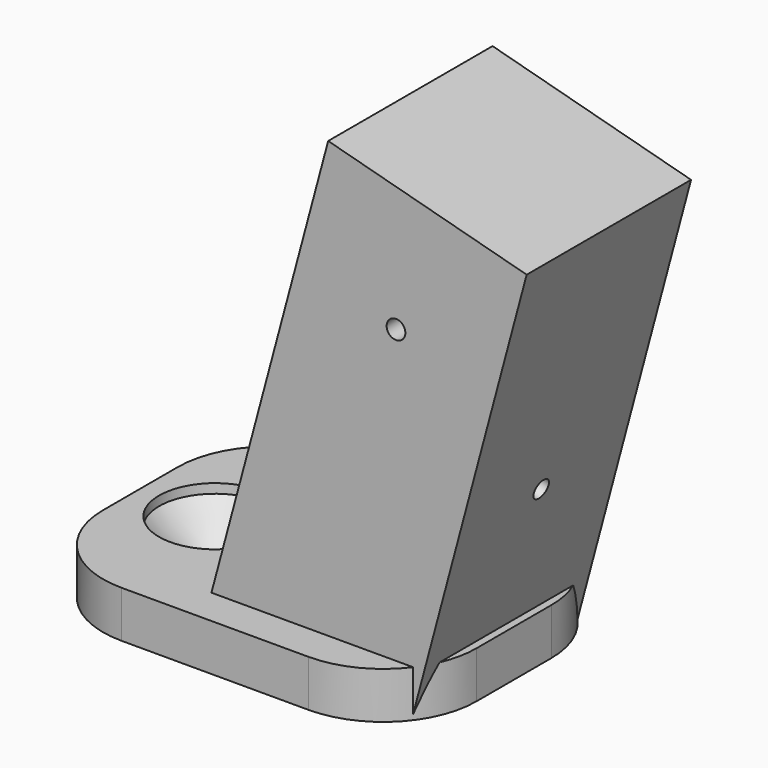
from build123d import *

# Parameters (mm, degrees)
BOX010_W                = 100
BOX010_H                = 100
BOX010_DEPTH            = 20
CYLINDER010_R           = 6
CYLINDER010_DEPTH       = 60
CYLINDER011_R           = 2.1
CYLINDER011_DEPTH       = 40
BOX009_W                = 40
BOX009_H                = 30
BOX009_DEPTH            = 5
FILLET002_R             = 10
CYLINDER013_R           = 1
CYLINDER013_DEPTH       = 60
CYLINDER014_R           = 1
CYLINDER014_DEPTH       = 40
BODY005_PLACEMENT_ANGLE = 90
CYLINDER015_R           = 1
CYLINDER015_DEPTH       = 60
CYLINDER016_R           = 1
CYLINDER016_DEPTH       = 40
BODY006_PLACEMENT_ANGLE = 90
BOX008_W                = 22
BOX008_H                = 22
BOX008_DEPTH            = 50
CUT003_PLACEMENT_ANGLE  = 15


with BuildPart() as base_cube002:
    # Box010 → Box010 (new body)
    with BuildSketch(Plane(origin=(-8, -50, -20), x_dir=(1, 0, 0), z_dir=(0, 0, 1))):
        with Locations((50, 50)):
            Rectangle(BOX010_W, BOX010_H)
    extrude(amount=BOX010_DEPTH)


with BuildPart() as cone005:
    # Cone005 → Cone005 (revolve)
    with BuildSketch(Plane.XZ):
        Polygon((0, 0), (2.1, 0), (6, 4), (0, 4), align=None)
    revolve(axis=Axis((0, 0, 0), (0, 0, 1)))


with BuildPart() as cylinder010:
    # Cylinder010 → Cylinder010 (new body)
    with BuildSketch(Plane.XY.offset(4)):
        Circle(CYLINDER010_R)
    extrude(amount=CYLINDER010_DEPTH)


with BuildPart() as extraction_fusion001:
    # Cylinder011 → Cylinder011 (new body)
    with BuildSketch(Plane.XY.offset(-40)):
        Circle(CYLINDER011_R)
    extrude(amount=CYLINDER011_DEPTH)

    # Fusion012: union Cone005, Cylinder010
    add(cone005.part)
    add(cylinder010.part)


with BuildPart() as extraction_fusion001_1:
    # Fusion012 placement: moved
    add(extraction_fusion001.part.moved(Location((0, 0, 5))))


with BuildPart() as extraction_fusion001_2:
    # Body008 placement: moved
    add(extraction_fusion001_1.part.moved(Location((-17, 0, -5))))

    # Fusion014: union base cube002
    add(base_cube002.part)


with BuildPart() as base_cube_fillet001:
    # Box009 → Box009 (new body)
    with BuildSketch(Plane(origin=(-25, -15, 0), x_dir=(1, 0, 0), z_dir=(0, 0, 1))):
        with Locations((20, 15)):
            Rectangle(BOX009_W, BOX009_H)
    extrude(amount=BOX009_DEPTH)

    # Fillet002
    fillet002_edges = [base_cube_fillet001.edges().sort_by_distance(p)[0] for p in [
        (-25, -15, 2.5),
        (-25, 15, 2.5),
        (15, -15, 2.5),
        (15, 15, 2.5),
    ]]
    fillet(fillet002_edges, radius=FILLET002_R)


with BuildPart() as screw_hole_cylinder001:
    # Cylinder013 → Cylinder013 (new body)
    with BuildSketch(Plane.XY):
        Circle(CYLINDER013_R)
    extrude(amount=CYLINDER013_DEPTH)


with BuildPart() as m3_screw_hole_fusion_clone002:
    # Cylinder014 → Cylinder014 (new body)
    with BuildSketch(Plane.XY.offset(-40)):
        Circle(CYLINDER014_R)
    extrude(amount=CYLINDER014_DEPTH)

    # Fusion011: union screw hole cylinder001
    add(screw_hole_cylinder001.part)


with BuildPart() as m3_screw_hole_fusion_clone002_1:
    # Fusion011 placement: moved
    add(m3_screw_hole_fusion_clone002.part.moved(Location((0, 0, 5))))


with BuildPart() as m3_screw_hole_fusion_clone002_2:
    # Body005 placement: moved
    add(m3_screw_hole_fusion_clone002_1.part.moved(Location((11, 26, 37))).rotate(Axis((11, 26, 37), (1, 0, 0)), BODY005_PLACEMENT_ANGLE))


with BuildPart() as cylinder015:
    # Cylinder015 → Cylinder015 (new body)
    with BuildSketch(Plane.XY):
        Circle(CYLINDER015_R)
    extrude(amount=CYLINDER015_DEPTH)


with BuildPart() as m3_hole_fusion001:
    # Cylinder016 → Cylinder016 (new body)
    with BuildSketch(Plane.XY.offset(-40)):
        Circle(CYLINDER016_R)
    extrude(amount=CYLINDER016_DEPTH)

    # Fusion016: union Cylinder015
    add(cylinder015.part)


with BuildPart() as m3_hole_fusion001_1:
    # Fusion016 placement: moved
    add(m3_hole_fusion001.part.moved(Location((0, 0, 5))))


with BuildPart() as m3_hole_fusion001_2:
    # Body009 placement: moved
    add(m3_hole_fusion001_1.part.moved(Location((0, 0, -5))))


with BuildPart() as m3_hole_fusion001_3:
    # Clone006 placement: moved
    add(m3_hole_fusion001_2.part.moved(Location((0, 0, 10))))


with BuildPart() as m3_hole_fusion001_4:
    # Body006 placement: moved
    add(m3_hole_fusion001_3.part.moved(Location((-2, 11, 22))).rotate(Axis((-2, 11, 22), (0, 1, 0)), BODY006_PLACEMENT_ANGLE))

    # Fusion015: union m3 screw hole fusion clone002
    add(m3_screw_hole_fusion_clone002_2.part)


with BuildPart() as m3_hole_fusion001_5:
    # Fusion015 placement: moved
    add(m3_hole_fusion001_4.part.moved(Location((-7, 0, 0))))


with BuildPart() as stand_cut_v3:
    # Box008 → Box008 (new body)
    with BuildSketch(Plane(origin=(-7, 0, 0), x_dir=(1, 0, 0), z_dir=(0, 0, 1))):
        with Locations((11, 11)):
            Rectangle(BOX008_W, BOX008_H)
    extrude(amount=BOX008_DEPTH)

    # Cut003: cut m3 hole fusion001
    add(m3_hole_fusion001_5.part, mode=Mode.SUBTRACT)


with BuildPart() as stand_cut_v3_1:
    # Cut003 placement: moved
    add(stand_cut_v3.part.moved(Location((-2.27139, -11, 1.53433))).rotate(Axis((-2.27139, -11, 1.53433), (0, 1, 0)), CUT003_PLACEMENT_ANGLE))

    # Fusion013: union base cube fillet001
    add(base_cube_fillet001.part)

    # Cut004: cut extraction fusion001
    add(extraction_fusion001_2.part, mode=Mode.SUBTRACT)


solid = stand_cut_v3_1.part
